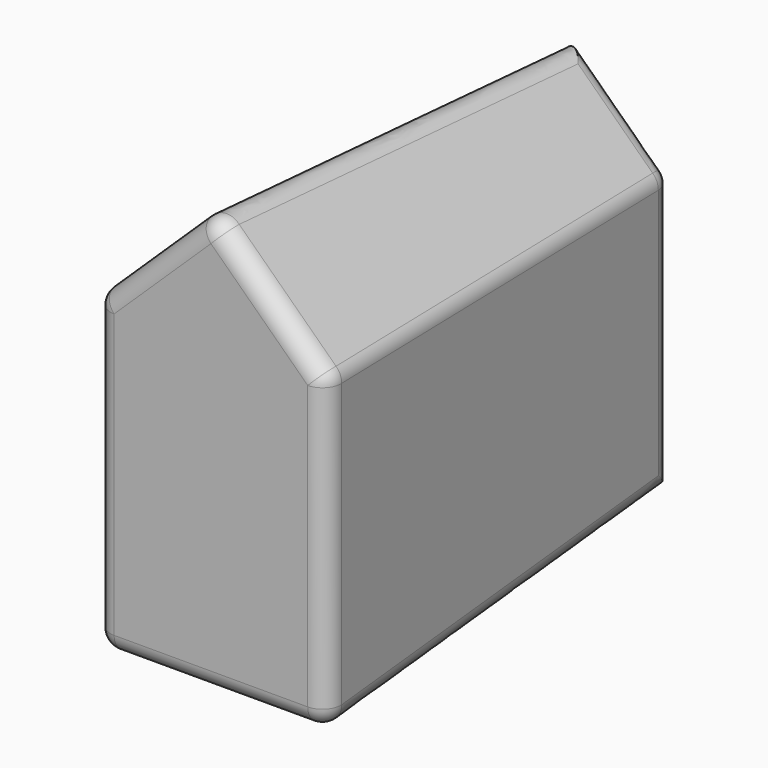
from build123d import *

# Parameters (mm, degrees)
F0_W     = 50.8
F0_H     = 76.2
F1_DEPTH = 127
F1_TAPER = -3
F2_R     = 5.08


with BuildPart() as f1:
    # F0 (on Front) → F1 (new body)
    with BuildSketch(Plane.XZ):
        Polygon((25.4, 100.702598691), (0, 76.2), (50.8, 76.2), align=None)
        with Locations((25.4, 38.1)):
            Rectangle(F0_W, F0_H)
    extrude(amount=F1_DEPTH, taper=F1_TAPER)

    # F2
    f2_edges = [f1.edges().sort_by_distance(p)[0] for p in [
        (41.427894, -127, 94.488904),
        (54.127894, -63.5, 77.613644),
        (57.455788, -127, 36.18575),
        (50.8, 0, 38.1),
        (38.1, 0, 88.451299),
        (25.4, -63.5, 105.326559),
        (54.127894, -63.5, -3.327894),
        (9.372106, -127, 94.488904),
        (-6.655788, -127, 36.18575),
        (25.4, -127, -6.655788),
        (0, 0, 38.1),
        (-3.327894, -63.5, -3.327894),
        (-3.327894, -63.5, 77.613644),
    ]]
    fillet(f2_edges, radius=F2_R)


solid = f1.part
